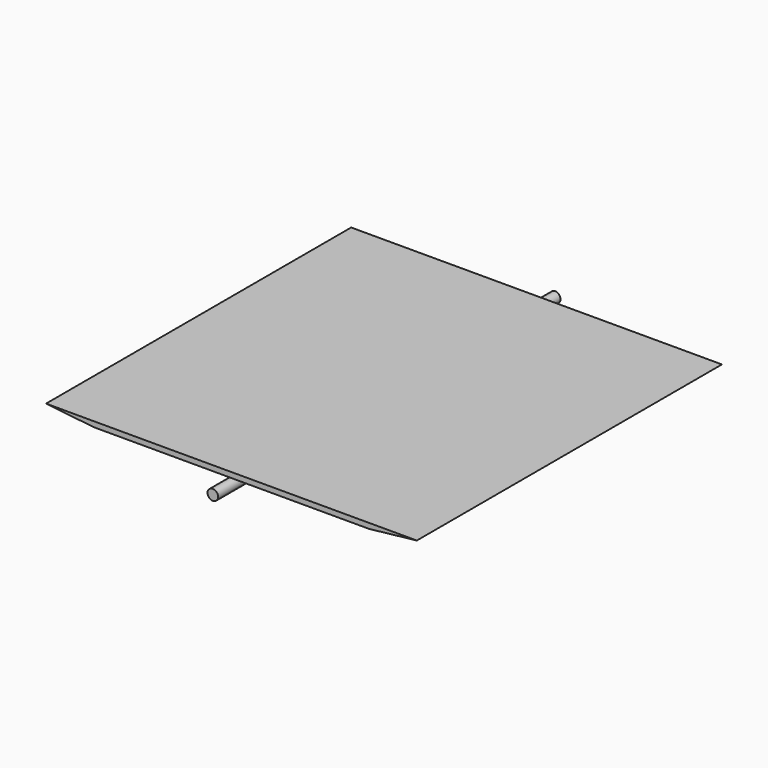
from build123d import *

# Parameters (mm, degrees)
F1_DEPTH = 180
F2_R     = 5
F3_DEPTH = 202


with BuildPart() as f1:
    # F0 (on Front) → F1 (new body, symmetric)
    with BuildSketch(Plane.XZ):
        Polygon((-175, 5), (-130, 0), (130, 0), (175, 5), align=None)
    extrude(amount=F1_DEPTH, both=True)


with BuildPart() as f3:
    # F2 (on Front) → F3 (new body, symmetric)
    with BuildSketch(Plane.XZ):
        with Locations((0, -5)):
            Circle(F2_R)
    extrude(amount=F3_DEPTH, both=True)


solid = Compound([f1.part, f3.part])
